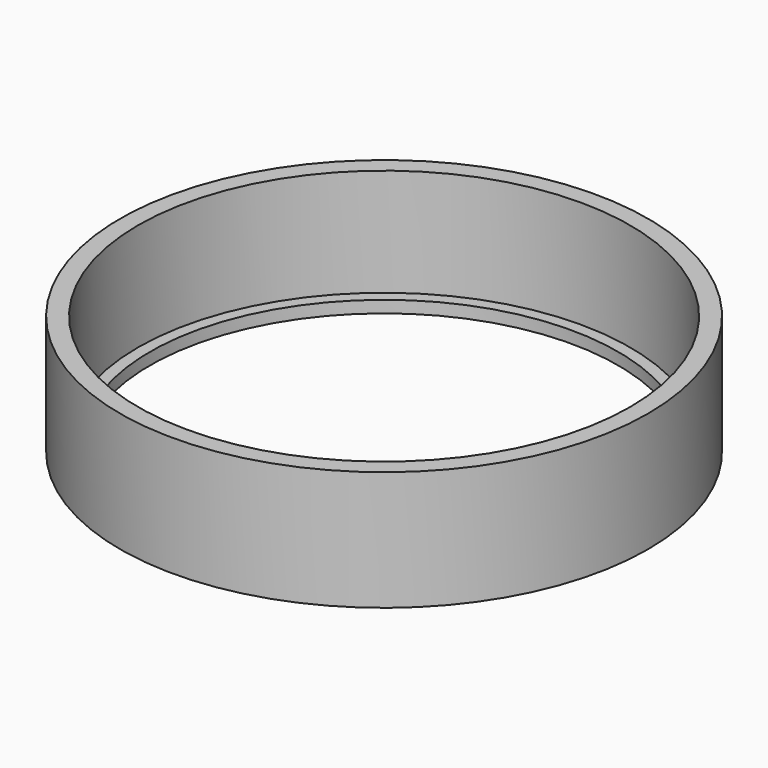
from build123d import *

# Parameters (mm, degrees)
CYLINDER014_R     = 9.8
CYLINDER014_DEPTH = 10
CYLINDER013_R     = 10.3
CYLINDER013_DEPTH = 10
CYLINDER012_R     = 11.05
CYLINDER012_DEPTH = 5


with BuildPart() as redtmp04:
    # Cylinder014 → Cylinder014 (new body)
    with BuildSketch(Plane.XY):
        Circle(CYLINDER014_R)
    extrude(amount=CYLINDER014_DEPTH)


with BuildPart() as redtmp02:
    # Cylinder013 → Cylinder013 (new body)
    with BuildSketch(Plane.XY.offset(0.5)):
        Circle(CYLINDER013_R)
    extrude(amount=CYLINDER013_DEPTH)


with BuildPart() as redbase:
    # Cylinder012 → Cylinder012 (new body)
    with BuildSketch(Plane.XY):
        Circle(CYLINDER012_R)
    extrude(amount=CYLINDER012_DEPTH)

    # Cut008: cut RedTmp02
    add(redtmp02.part, mode=Mode.SUBTRACT)

    # Cut009: cut RedTmp04
    add(redtmp04.part, mode=Mode.SUBTRACT)


with BuildPart() as redbase_1:
    # Cut009 placement: moved
    add(redbase.part.moved(Location((10, 40, 0))))


solid = redbase_1.part
